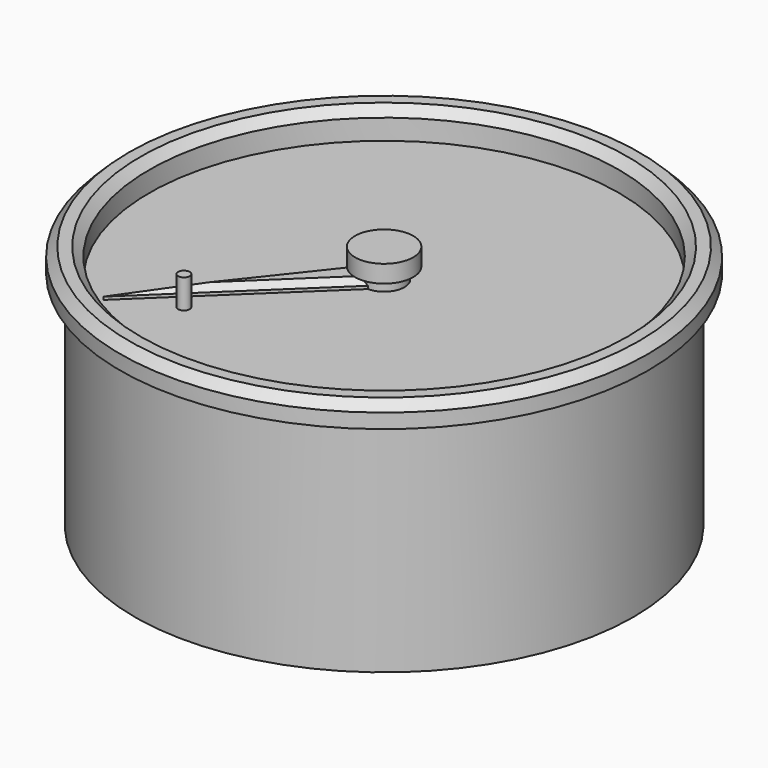
from build123d import *

# Parameters (mm, degrees)
F0_R      = 42.8625
F1_DEPTH  = 38.1
F2_R      = 45.3625
F3_DEPTH  = 4
F4_R      = 40.3625
F5_DEPTH  = 5
F6_SIZE   = 1.5
F7_R      = 3.5
F8_DEPTH  = 2
F9_R      = 5
F10_DEPTH = 3
F12_DEPTH = 1.5
F13_SIZE  = 1
F14_R     = 1
F15_DEPTH = 5


with BuildPart() as f1:
    # F0 (on Top) → F1 (new body)
    with BuildSketch(Plane.XY):
        Circle(F0_R)
    extrude(amount=F1_DEPTH)

    # F2 (on face) → F3 (join)
    with BuildSketch(Plane.XY.offset(38.1)):
        Circle(F2_R)
    extrude(amount=F3_DEPTH)

    # F4 (on face) → F5 (cut)
    with BuildSketch(Plane.XY.offset(42.1)):
        Circle(F4_R)
    extrude(amount=-F5_DEPTH, mode=Mode.SUBTRACT)

    # F6
    f6_edges = [f1.edges().sort_by_distance(p)[0] for p in [
        (-45.3625, 0, 42.1),
        (-40.3625, 0, 42.1),
    ]]
    chamfer(f6_edges, length=F6_SIZE)

    # F7 (on face) → F8 (join)
    with BuildSketch(Plane.XY.offset(37.1)):
        Circle(F7_R)
    extrude(amount=F8_DEPTH)

    # F9 (on face) → F10 (join)
    with BuildSketch(Plane.XY.offset(39.1)):
        Circle(F9_R)
    extrude(amount=F10_DEPTH)

    # F11 (on face) → F12 (join)
    with BuildSketch(Plane.XY.offset(37.1)):
        Polygon((0, -3.5), (-3.5, 0), (-25.72323, -28.12019), align=None)
        Polygon((0, -3.5), (-3.5, 0), (-25.72323, -28.12019), align=None)
    extrude(amount=F12_DEPTH)

    # F13
    f13_edges = [f1.edges().sort_by_distance(p)[0] for p in [
        (-12.861615, -15.810095, 38.6),
        (-14.611615, -14.060095, 38.6),
    ]]
    chamfer(f13_edges, length=F13_SIZE)

    # F14 (on face) → F15 (join)
    with BuildSketch(Plane.XY.offset(37.1)):
        with Locations((-16, -23)):
            Circle(F14_R)
    extrude(amount=F15_DEPTH)


solid = f1.part
